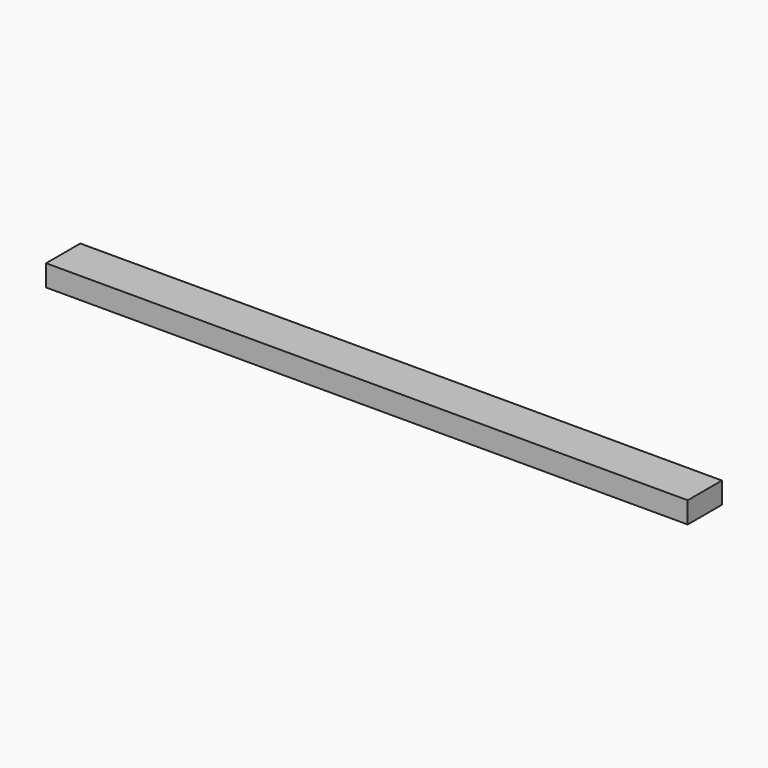
from build123d import *

# Parameters (mm, degrees)
SKETCH_W  = 20
SKETCH_H  = 10
PAD_DEPTH = 300


with BuildPart() as part:
    # Sketch → Pad (new body)
    with BuildSketch(Plane.YZ):
        with Locations((-50, 0)):
            Rectangle(SKETCH_W, SKETCH_H)
    extrude(amount=PAD_DEPTH)


solid = part.part
